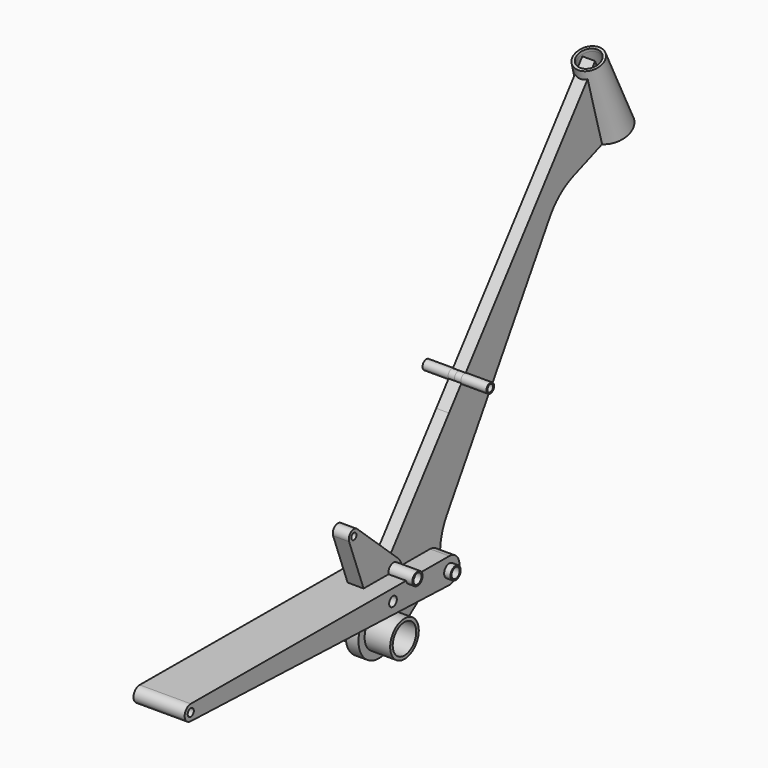
from build123d import *

# Parameters (mm, degrees)
F3_R      = 28
F3_R_2    = 23
F4_DEPTH  = 50
F6_R      = 28
F6_R_2    = 10
F7_DEPTH  = 10
F8_R      = 7.5
F8_R_2    = 5.5
F8_R_3    = 10
F8_R_4    = 8
F9_DEPTH  = 50
F10_R     = 10
F10_R_2   = 6
F10_R_3   = 7.5
F11_DEPTH = 40
F12_R     = 5
F13_DEPTH = 12.5


with BuildPart() as f2:
    # F1 (on Right) → F2 (revolve)
    with BuildSketch(Plane.YZ):
        Polygon((-248.4087363355, 430.2523674684), (-243.7253753893, 432.0034043747), (-245.4764122956, 436.686765321), (-275.0992623526, 540.1880098817), (-276.8502992589, 544.871370828), (-280.7917995578, 543.397704252), align=None)
    revolve(axis=Axis((0, -155.988308036, 271.5816829535), (0, 0.3502073813, -0.9366721892)))



with BuildPart() as f4:
    # F3 (on Right) → F4 (new body, symmetric)
    with BuildSketch(Plane.YZ):
        with Locations((-683.4585359471, -60)):
            Circle(F3_R)
        with Locations((-683.4585359471, -60)):
            Circle(F3_R_2, mode=Mode.SUBTRACT)
    extrude(amount=F4_DEPTH, both=True)


with BuildPart() as f2_1:
    add(f2.part)

    add(f4.part)  # F7 merges F4
    # F6 (on Right) → F7 (join, symmetric)
    with BuildSketch(Plane.YZ):
        with BuildLine():
            Line((-546.2967732706, 182.2424448166), (-715.0730154019, -35.4943947473))
            ThreePointArc((-715.0730154019, -35.4943947473), (-711.9667089959, -88.0585828119), (-659.4585359471, -92))
            Line((-659.4585359471, -92), (-571.4585359471, -26))
            ThreePointArc((-571.4585359471, -26), (-565.2680169215, -18.3129427749), (-563.5074975053, -8.6014060287))
            ThreePointArc((-563.5074975053, -8.6014060287), (-561.2141237524, 18.2846287115), (-550.824232875, 43.187813142))
            Line((-550.824232875, 43.187813142), (-348.967340209, 372.176811768))
            ThreePointArc((-348.967340209, 372.176811768), (-329.3473658343, 394.7279747263), (-303.4585359471, 409.670090785))
            Line((-303.4585359471, 409.670090785), (-219.3718984688, 441.1087962875))
            Line((-219.3718984688, 441.1087962875), (-260.4585359471, 551))
            Line((-260.4585359471, 551), (-489.5673246348, 255.4286391541))
            ThreePointArc((-489.5673246348, 255.4286391541), (-478.9630080964, 188.6291318603), (-546.2967732706, 182.2424448166))
        make_face()
        with Locations((-683.4585359471, -60)):
            Circle(F6_R, mode=Mode.SUBTRACT)
        with Locations((-658.0785359471, 12.53)):
            Circle(F6_R_2, mode=Mode.SUBTRACT)
        with Locations((-583.4585359471, -10)):
            Circle(F6_R_2, mode=Mode.SUBTRACT)
        with BuildLine():
            Line((-522.1657277206, 213.3737078848), (-546.2967732706, 182.2424448166))
            ThreePointArc((-546.2967732706, 182.2424448166), (-478.9630080964, 188.6291318603), (-489.5673246348, 255.4286391541))
            Line((-489.5673246348, 255.4286391541), (-513.6983701849, 224.2973760859))
            ThreePointArc((-513.6983701849, 224.2973760859), (-509.6818459763, 221.6202164491), (-508.1285359471, 217.05))
            ThreePointArc((-508.1285359471, 217.05), (-513.728396255, 209.7946937245), (-522.1657277206, 213.3737078848))
        make_face()
        with BuildLine():
            ThreePointArc((-513.6983701849, 224.2973760859), (-521.5562508448, 221.6448009849), (-522.1657277206, 213.3737078848))
            Line((-522.1657277206, 213.3737078848), (-513.6983701849, 224.2973760859))
        make_face()
        with BuildLine():
            Line((-513.6983701849, 224.2973760859), (-522.1657277206, 213.3737078848))
            ThreePointArc((-522.1657277206, 213.3737078848), (-513.728396255, 209.7946937245), (-508.1285359471, 217.05))
            ThreePointArc((-508.1285359471, 217.05), (-509.6818459763, 221.6202164491), (-513.6983701849, 224.2973760859))
        make_face()
    extrude(amount=F7_DEPTH, both=True)

    # F8 (on Right) → F9 (join, symmetric)
    with BuildSketch(Plane.YZ):
        with Locations((-515.6285359471, 217.05)):
            Circle(F8_R)
        with Locations((-515.6285359471, 217.05)):
            Circle(F8_R_2, mode=Mode.SUBTRACT)
        with Locations((-583.4585359471, -10)):
            Circle(F8_R_3)
        with Locations((-583.4585359471, -10)):
            Circle(F8_R_4, mode=Mode.SUBTRACT)
        with Locations((-658.0785359471, 12.53)):
            Circle(F8_R_3)
        with Locations((-658.0785359471, 12.53)):
            Circle(F8_R_4, mode=Mode.SUBTRACT)
    extrude(amount=F9_DEPTH, both=True)


with BuildPart() as f11:
    # F10 (on Right) → F11 (new body, symmetric)
    with BuildSketch(Plane.YZ):
        with BuildLine():
            ThreePointArc((-1088.9970639482, 11.9999061166), (-1101.0421851891, 0.2373019334), (-1089.4716084201, -11.9923978222))
            Line((-1089.4716084201, -11.9923978222), (-584.1703303797, -29.9873297037))
            ThreePointArc((-584.1703303797, -29.9873297037), (-563.4624468994, -10.3955032223), (-583.3794229265, 9.9998435276))
            Line((-583.3794229265, 9.9998435276), (-1088.9970639482, 11.9999061166))
        make_face()
        with Locations((-583.4585359471, -10)):
            Circle(F10_R, mode=Mode.SUBTRACT)
        with Locations((-1089.0445317605, 0)):
            Circle(F10_R_2, mode=Mode.SUBTRACT)
        with Locations((-693.4385359471, -7.82)):
            Circle(F10_R_3, mode=Mode.SUBTRACT)
    extrude(amount=F11_DEPTH, both=True)


with BuildPart() as f13:
    # F12 (on Right) → F13 (new body, symmetric)
    with BuildSketch(Plane.YZ):
        with BuildLine():
            Line((-647.966717454, 23.6093107531), (-728.8573236184, 97.4362071687))
            ThreePointArc((-728.8573236184, 97.4362071687), (-741.1974137797, 98.3356844627), (-744.9663562949, 86.5508655456))
            Line((-744.9663562949, 86.5508655456), (-702.8063562949, -26.3191344544))
            ThreePointArc((-702.8063562949, -26.3191344544), (-696.0490829815, -32.4732400872), (-687.1111216056, -30.5636314318))
            Line((-687.1111216056, -30.5636314318), (-648.5874144349, 0.9145528523))
            ThreePointArc((-648.5874144349, 0.9145528523), (-643.0841428865, 12.1199064205), (-647.966717454, 23.6093107531))
        make_face()
        with Locations((-693.4385359471, -22.82)):
            Circle(F12_R, mode=Mode.SUBTRACT)
        with Locations((-735.5985359471, 90.05)):
            Circle(F12_R, mode=Mode.SUBTRACT)
    extrude(amount=F13_DEPTH, both=True)


solid = Compound([f2_1.part, f11.part, f13.part])
